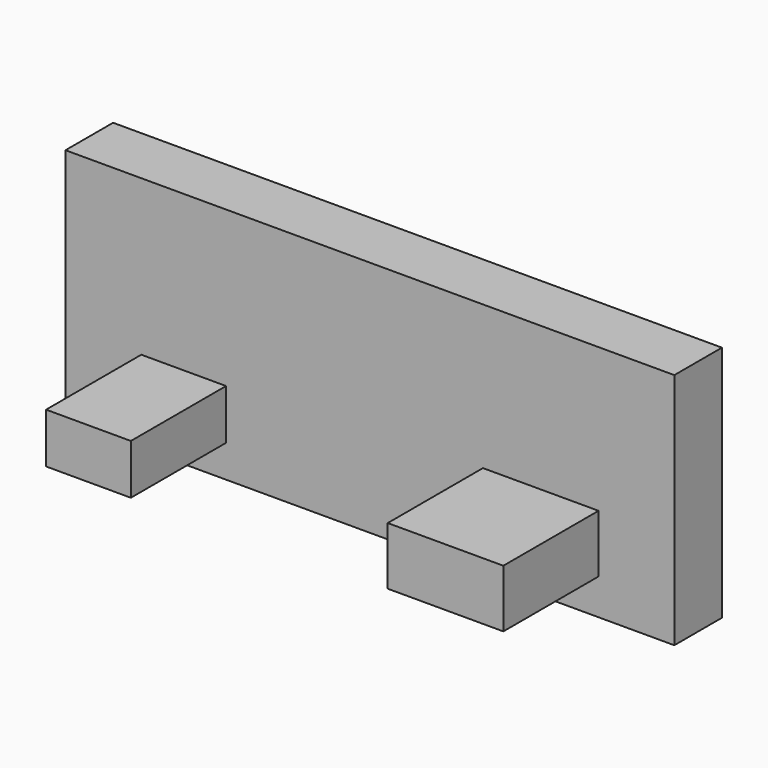
from build123d import *

# Parameters (mm, degrees)
F0_W     = 36.189217
F0_H     = 21.355719
F0_W_2   = 49.348921
F0_H_2   = 24.685026
F1_DEPTH = 76.2
F0_W_3   = 259.90437
F0_H_3   = 101.53158
F2_DEPTH = 25.4


with BuildPart() as f1:
    # F0 (on Front) → F1 (new body)
    with BuildSketch(Plane.XZ):
        with Locations((-53.187182, -36.190036)):
            Rectangle(F0_W, F0_H)
        with Locations((99.246182, -33.036258)):
            Rectangle(F0_W_2, F0_H_2)
    extrude(amount=F1_DEPTH)


with BuildPart() as f2:
    # F0 (on Front) → F2 (new body)
    with BuildSketch(Plane.XZ):
        with Locations((26.319437, -9.948522)):
            Rectangle(F0_W_3, F0_H_3)
        with Locations((-53.187182, -36.190036)):
            Rectangle(F0_W, F0_H, mode=Mode.SUBTRACT)
        with Locations((99.246182, -33.036258)):
            Rectangle(F0_W_2, F0_H_2, mode=Mode.SUBTRACT)
    extrude(amount=F2_DEPTH)


solid = Compound([f1.part, f2.part])
